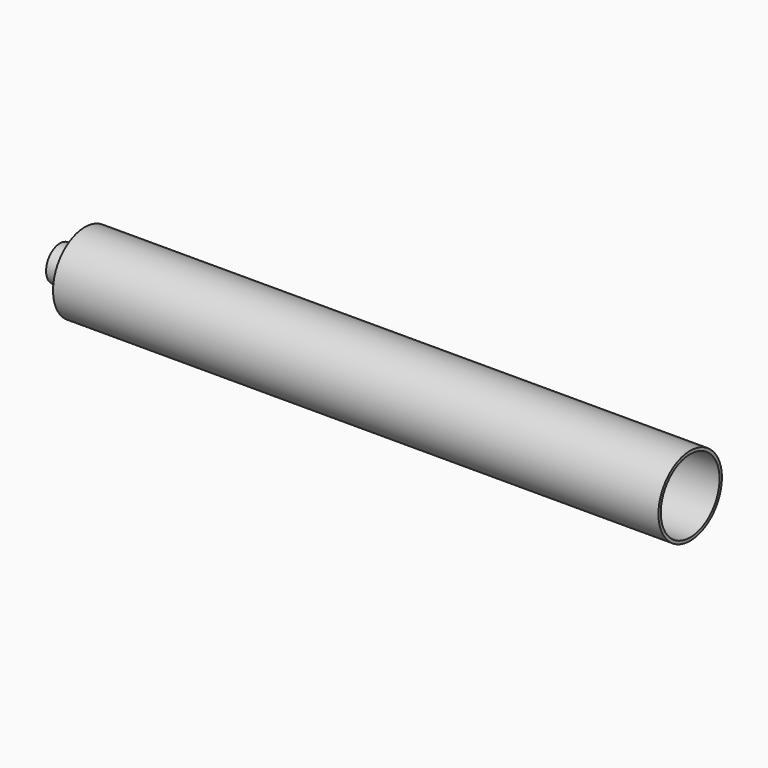
from build123d import *

# Parameters (mm, degrees)
F0_W     = 30
F0_H     = 37
F2_R     = 17.5
F3_DEPTH = 25


with BuildPart() as f1:
    # F0 (on Top) → F1 (revolve)
    with BuildSketch(Plane.XY):
        Polygon((305, 40), (-305, 40), (-305, 37), (-275, 37), (305, 37), align=None)
        with Locations((-290, 18.5)):
            Rectangle(F0_W, F0_H)
    revolve(axis=Axis((-46.437122, 0, 0), (-1, 0, 0)))

    # F2 (on face) → F3 (join)
    with BuildSketch(Plane(origin=(-305, 0, 0), x_dir=(0, -1, 0), z_dir=(-1, 0, 0))):
        Circle(F2_R)
    extrude(amount=F3_DEPTH)


solid = f1.part
